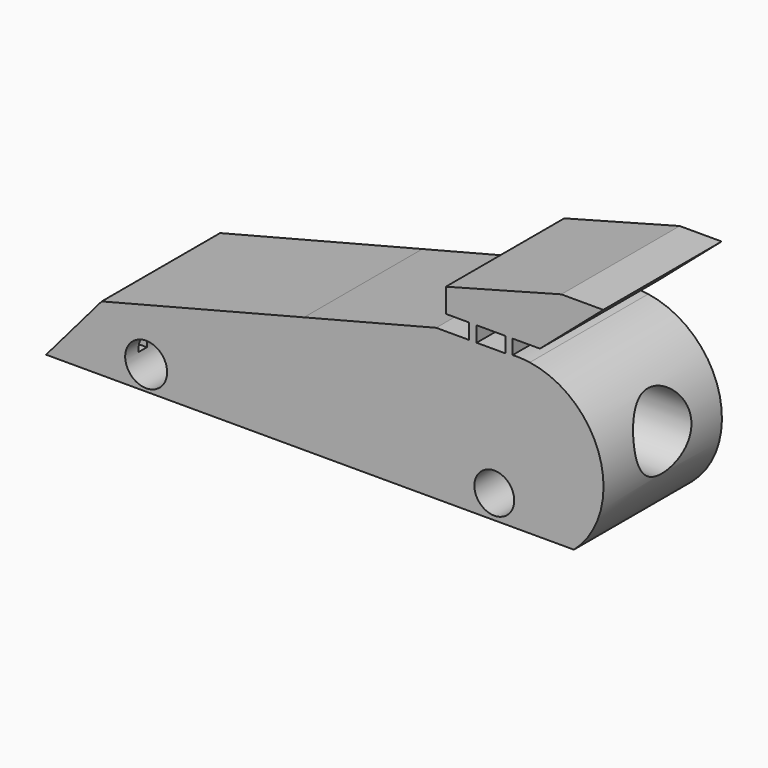
from build123d import *

# Parameters (mm, degrees)
F0_R     = 7.198052
F0_R_2   = 6.829302
F1_DEPTH = 50.8
F2_R     = 12.108845
F3_DEPTH = 127
F4_W     = 2.642531
F4_H     = 6.459523
F4_W_2   = 2.348915
F4_H_2   = 7.340368
F5_DEPTH = 50.8
F6_W     = 3.81699
F6_H     = 8.221211
F6_W_2   = 4.404219
F6_W_3   = 4.110609
F6_W_4   = 3.523376
F7_DEPTH = 101.6


with BuildPart() as f1:
    # F0 (on Front) → F1 (new body)
    with BuildSketch(Plane.XZ):
        with BuildLine():
            Line((68.852641, 38.757138), (45.363467, 38.757138))
            Line((45.363467, 38.757138), (0, 27.155228))
            Line((0, 27.155228), (-69.439873, 9.39567))
            Line((-69.439873, 9.39567), (-88.524826, -12.919046))
            Line((-88.524826, -12.919046), (92.63543, -12.919046))
            ThreePointArc((92.63543, -12.919046), (101.629006, 17.76077), (77.51909, 38.757138))
            Line((77.51909, 38.757138), (68.852641, 38.757138))
        make_face()
        with Locations((-54.171909, -4.697835)):
            Circle(F0_R, mode=Mode.SUBTRACT)
        with Locations((65.329269, -4.697835)):
            Circle(F0_R_2, mode=Mode.SUBTRACT)
        with BuildLine():
            ThreePointArc((77.51909, 38.757138), (73.185865, 39.07565), (68.852641, 38.757138))
            Line((68.852641, 38.757138), (77.51909, 38.757138))
        make_face()
    extrude(amount=F1_DEPTH)

    # F2 (on Right) → F3 (cut)
    with BuildSketch(Plane.YZ):
        with Locations((-24.810441, 14.680734)):
            Circle(F2_R)
    extrude(amount=F3_DEPTH, mode=Mode.SUBTRACT)

    # F4 (on Front) → F5 (join)
    with BuildSketch(Plane.XZ):
        Polygon((48.69454, 52.263413), (48.69454, 44.042204), (56.622133, 44.042204), (59.264664, 44.042204), (69.247566, 44.042204), (71.596481, 44.042204), (80.992155, 44.042204), (102.719635, 62.83354), (88.332519, 62.83354), align=None)
        with Locations((57.943399, 40.812443)):
            Rectangle(F4_W, F4_H)
        with Locations((70.422023, 40.37202)):
            Rectangle(F4_W_2, F4_H_2)
    extrude(amount=F5_DEPTH)

    # F6 (on Right) → F7 (cut)
    with BuildSketch(Plane.YZ):
        with Locations((-9.982899, -1.468074)):
            Rectangle(F6_W, F6_H)
        with Locations((-21.433872, -1.468074)):
            Rectangle(F6_W_2, F6_H)
        with Locations((-33.618881, -1.468074)):
            Rectangle(F6_W_3, F6_H)
        with Locations((-43.308167, -1.468074)):
            Rectangle(F6_W_4, F6_H)
    extrude(amount=-F7_DEPTH, mode=Mode.SUBTRACT)


solid = f1.part
